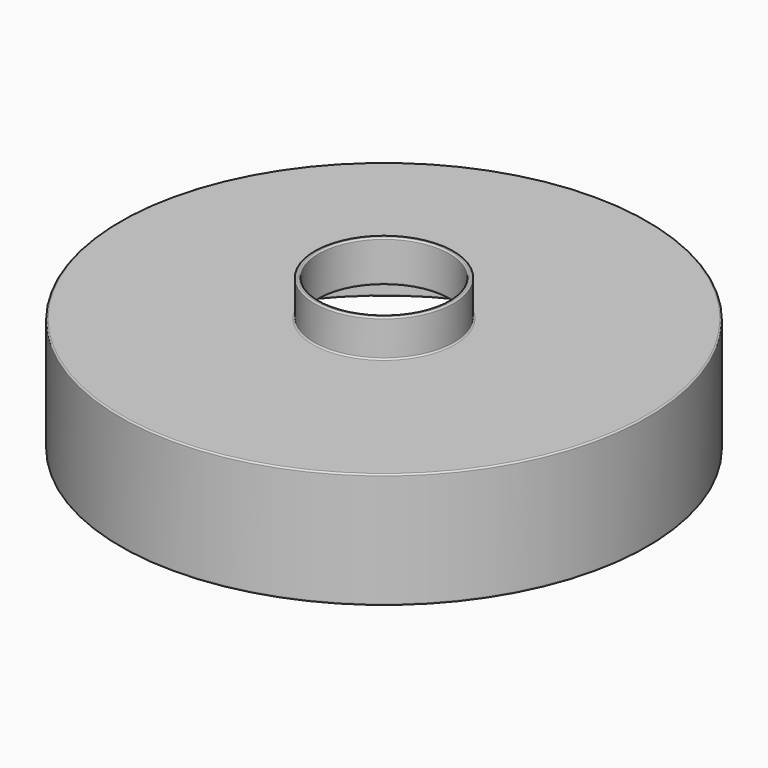
from build123d import *


with BuildPart() as f1:
    # F0 (on Right) → F1 (revolve)
    with BuildSketch(Plane.YZ):
        with BuildLine():
            Line((-48, 0), (-177, 0))
            ThreePointArc((-177, 0), (-177.707107, -0.292893), (-178, -1))
            Line((-178, -1), (-178, -77))
            ThreePointArc((-178, -77), (-177.707107, -77.707107), (-177, -78))
            Line((-177, -78), (-176, -78))
            ThreePointArc((-176, -78), (-175.292893, -77.707107), (-175, -77))
            Line((-175, -77), (-175, -4))
            ThreePointArc((-175, -4), (-174.707107, -3.292893), (-174, -3))
            Line((-174, -3), (-47, -3))
            Line((-47, -3), (-45, -3))
            ThreePointArc((-45, -3), (-44.292893, -2.707107), (-44, -2))
            Line((-44, -2), (-44, -1))
            Line((-44, -1), (-44, 24))
            ThreePointArc((-44, 24), (-44.292893, 24.707107), (-45, 25))
            Line((-45, 25), (-46, 25))
            ThreePointArc((-46, 25), (-46.707107, 24.707107), (-47, 24))
            Line((-47, 24), (-47, 1))
            ThreePointArc((-47, 1), (-47.292893, 0.292893), (-48, 0))
        make_face()
    revolve(axis=Axis((0, 0, -41.137744), (0, 0, -1)))


solid = f1.part
